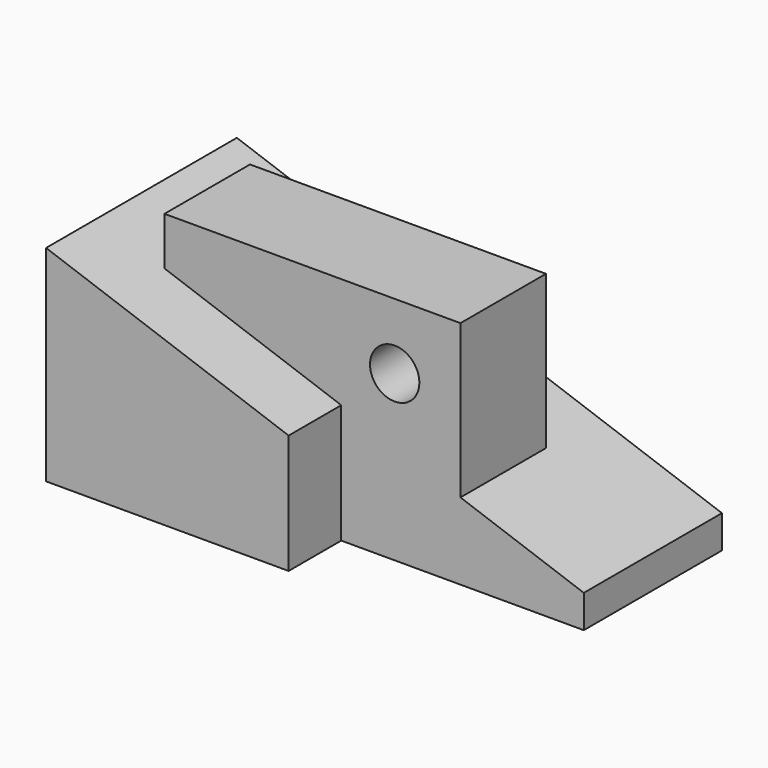
from build123d import *

# Parameters (mm, degrees)
F1_DEPTH = 29
F3_DEPTH = 13
F5_DEPTH = 16
F6_R     = 6
F7_DEPTH = 42.001


with BuildPart() as f1:
    # F0 (on Front) → F1 (new body, symmetric)
    with BuildSketch(Plane.XZ):
        Polygon((0, 50), (0, 0), (118, 0), (118, 8), align=None)
    extrude(amount=F1_DEPTH, both=True)

    # F2 (on Front) → F3 (join, symmetric)
    with BuildSketch(Plane.XZ):
        Polygon((16, 56), (16, 44.305085), (88, 18.677966), (88, 56), align=None)
    extrude(amount=F3_DEPTH, both=True)

    # F4 (on face) → F5 (cut)
    with BuildSketch(Plane.XZ.offset(29)):
        Polygon((118, 8), (59, 29), (59, 0), (118, 0), align=None)
    extrude(amount=-F5_DEPTH, mode=Mode.SUBTRACT)

    # F6 (on face) → F7 (cut, through all)
    with BuildSketch(Plane.XZ.offset(13)):
        with Locations((72, 40)):
            Circle(F6_R)
    extrude(amount=-F7_DEPTH, mode=Mode.SUBTRACT)


solid = f1.part
